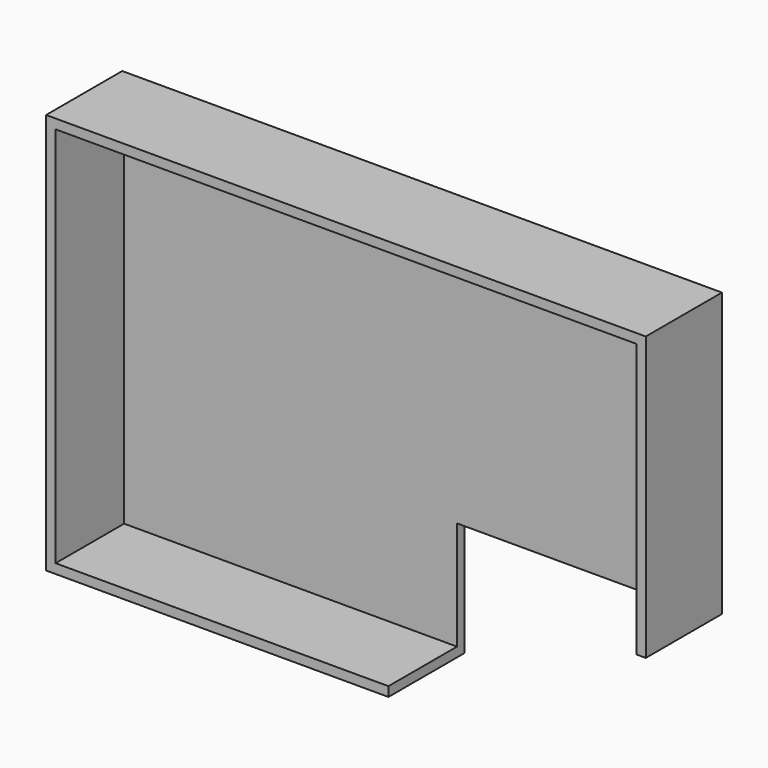
from build123d import *

# Parameters (mm, degrees)
F0_W     = 91.358508
F0_H     = 107.0102
F0_W_2   = 68.661492
F1_DEPTH = 25.4
F2_T     = -2.54
F3_W     = 68.661492
F3_H     = 25.4
F4_DEPTH = 31.496


with BuildPart() as f1:
    # F0 (on Front) → F1 (new body)
    with BuildSketch(Plane.XZ):
        with Locations((-45.679254, -5.917441)):
            Rectangle(F0_W, F0_H)
        with Locations((34.330746, -5.917441)):
            Rectangle(F0_W_2, F0_H)
    extrude(amount=F1_DEPTH)

    # F2
    f2_openings = [f1.faces().sort_by_distance(p)[0] for p in [
        (-11.348508, -25.4, -5.917441),
    ]]
    offset(amount=F2_T, openings=f2_openings)

    # F3 (on face) → F4 (cut, symmetric)
    with BuildSketch(Plane(origin=(0, 0, -59.422541), x_dir=(1, 0, 0), z_dir=(0, 0, -1))):
        with Locations((34.330746, 12.7)):
            Rectangle(F3_W, F3_H)
    extrude(amount=F4_DEPTH, both=True, mode=Mode.SUBTRACT)


solid = f1.part
